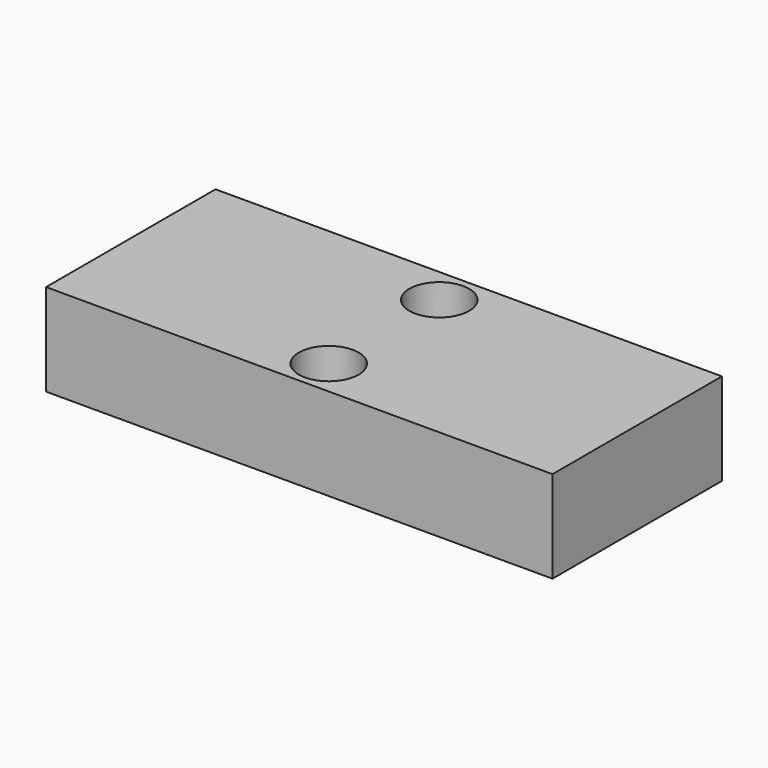
from build123d import *

# Parameters (mm, degrees)
F0_W           = 55
F0_H           = 23
F1_DEPTH       = 10
F3_D           = 3
F3_CBORE_D     = 6.5
F3_CBORE_DEPTH = 4


with BuildPart() as f1:
    # F0 (on Top) → F1 (new body)
    with BuildSketch(Plane.XY):
        Rectangle(F0_W, F0_H)
    extrude(amount=F1_DEPTH)

    # F3 (through all)
    with Locations(Plane.XY.offset(10)):
        with Locations((0, 7.5), (0, -7.5)):
            CounterBoreHole(F3_D / 2, F3_CBORE_D / 2, F3_CBORE_DEPTH)


solid = f1.part
